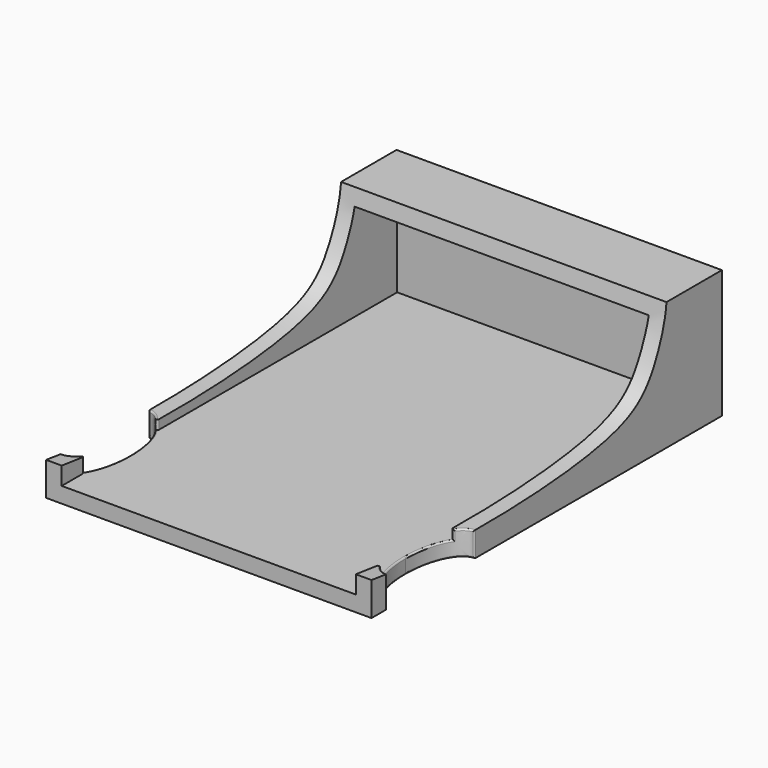
from build123d import *

# Parameters (mm, degrees)
F0_W     = 52
F0_H     = 20.5
F0_W_2   = 47
F0_H_2   = 15.5
F1_DEPTH = 67
F2_DEPTH = 3
F4_DEPTH = 70
F6_DEPTH = 25
F7_R     = 0.25


with BuildPart() as f1:
    # F0 (on Front) → F1 (new body)
    with BuildSketch(Plane.XZ):
        with Locations((26, 10.25)):
            Rectangle(F0_W, F0_H)
        with Locations((26, 10.25)):
            Rectangle(F0_W_2, F0_H_2, mode=Mode.SUBTRACT)
    extrude(amount=F1_DEPTH)

    # F0 (on Front) → F2 (join)
    with BuildSketch(Plane.XZ):
        with Locations((26, 10.25)):
            Rectangle(F0_W, F0_H)
        with Locations((26, 10.25)):
            Rectangle(F0_W_2, F0_H_2, mode=Mode.SUBTRACT)
        with Locations((26, 10.25)):
            Rectangle(F0_W_2, F0_H_2)
    extrude(amount=-F2_DEPTH)

    # F3 (on Right) → F4 (cut)
    with BuildSketch(Plane.YZ):
        with BuildLine():
            add(Edge.make_bspline(
                [(-11.3033046794, 29.0982953142), (-6.2375036234, 24.7641952499), (-9.617442649, 11.550248494), (-18.9878379111, 3.0062186137), (-77.4742394352, 3.2217180463), (-85.9319984459, 15.2790155869), (-77.6764598974, 35.0161242054), (-21.3921289794, 37.7298964299), (-11.3033046794, 29.0982953142)],
                knots=[0, 0, 0, 0, 0.1312509352, 0.2490760511, 0.4953829766, 0.6049895706, 0.7386064693, 1, 1, 1, 1], degree=3))
        make_face()
    extrude(amount=F4_DEPTH, mode=Mode.SUBTRACT)

    # F5 (on Top) → F6 (cut)
    with BuildSketch(Plane.XY):
        with BuildLine():
            add(Edge.make_bspline(
                [(3.9846904673, -55.2074685693), (3.9846904673, -34.1313430468), (-2.8176016503, -49.0344143249), (-9.619893768, -63.937485603), (0, -63.937485603)],
                knots=[1.5707963268, 1.5707963268, 1.5707963268, 3.926990817, 3.926990817, 6.2831853072, 6.2831853072, 6.2831853072], degree=2, weights=[1, 0.3826834324, 1, 0.3826834324, 1]))
            add(Edge.make_bspline(
                [(0, -63.937485603), (3.9846904673, -63.937485603), (3.9846904673, -55.2074685693)],
                knots=[0, 0, 0, 1.5707963268, 1.5707963268, 1.5707963268], degree=2, weights=[1, 0.7071067812, 1]))
        make_face()
        with BuildLine():
            add(Edge.make_bspline(
                [(51.9939288497, -63.937485603), (61.6138226177, -63.937485603), (54.8115305, -49.0344143249), (48.0092383824, -34.1313430468), (48.0092383824, -55.2074685693)],
                knots=[0, 0, 0, 2.3561944902, 2.3561944902, 4.7123889804, 4.7123889804, 4.7123889804], degree=2, weights=[1, 0.3826834324, 1, 0.3826834324, 1]))
            add(Edge.make_bspline(
                [(48.0092383824, -55.2074685693), (48.0092383824, -63.937485603), (51.9939288497, -63.937485603)],
                knots=[4.7123889804, 4.7123889804, 4.7123889804, 6.2831853072, 6.2831853072, 6.2831853072], degree=2, weights=[1, 0.7071067812, 1]))
        make_face()
    extrude(amount=F6_DEPTH, mode=Mode.SUBTRACT)

    # F7
    f7_edges = [f1.edges().sort_by_distance(p)[0] for p in [
        (3.651841, -51.714516, 2.5),
        (3.651841, -58.700421, 2.5),
        (1.488902, -47.109788, 3.976618),
        (1.490237, -63.30397, 4.884852),
        (2.5, -48.409438, 3.247586),
        (2.5, -62.005499, 3.624648),
        (50.511922, -47.103719, 3.976551),
        (50.510583, -63.310041, 4.885518),
        (48.343291, -58.706452, 2.5),
        (48.343291, -51.708486, 2.5),
        (49.5, -48.398743, 3.247492),
        (49.5, -62.016194, 3.625179),
        (48.75855, -50.111552, 0),
        (48.75855, -60.303385, 0),
        (52, -46.477462, 1.985336),
        (52, -63.937475, 2.478038),
        (3.236325, -60.300501, 0),
        (3.236325, -50.114436, 0),
        (0, -46.477452, 1.985336),
        (0, -63.937486, 2.478039),
    ]]
    fillet(f7_edges, radius=F7_R)


solid = f1.part
